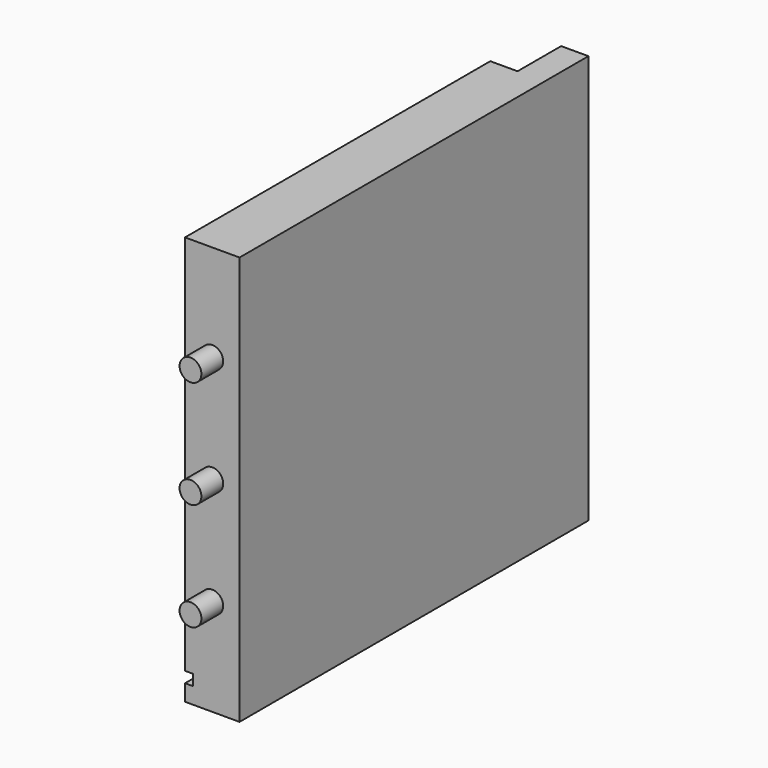
from build123d import *

# Parameters (mm, degrees)
F0_W     = 160
F0_H     = 150
F1_DEPTH = 20
F2_W     = 20
F2_H     = 150
F3_DEPTH = 10
F5_W     = 140
F5_H     = 4
F6_DEPTH = 3
F4_R     = 4
F7_DEPTH = 10


with BuildPart() as f1:
    # F0 (on Right) → F1 (new body)
    with BuildSketch(Plane.YZ):
        with Locations((-24.649234, 32.567439)):
            Rectangle(F0_W, F0_H)
    extrude(amount=F1_DEPTH)

    # F2 (on face) → F3 (cut)
    with BuildSketch(Plane(origin=(0, 0, 0), x_dir=(0, -1, 0), z_dir=(-1, 0, 0))):
        with Locations((-45.350766, 32.567439)):
            Rectangle(F2_W, F2_H)
    extrude(amount=-F3_DEPTH, mode=Mode.SUBTRACT)

    # F5 (on face) → F6 (cut)
    with BuildSketch(Plane(origin=(0, 0, 0), x_dir=(0, -1, 0), z_dir=(-1, 0, 0))):
        with Locations((34.649234, -34.432561)):
            Rectangle(F5_W, F5_H)
    extrude(amount=-F6_DEPTH, mode=Mode.SUBTRACT)

    # F4 (on face) → F7 (join)
    with BuildSketch(Plane.XZ.offset(104.649234)):
        with Locations((10, 72.067439)):
            Circle(F4_R)
        with Locations((10, 32.567439)):
            Circle(F4_R)
        with Locations((10, -6.932561)):
            Circle(F4_R)
    extrude(amount=F7_DEPTH)


solid = f1.part
